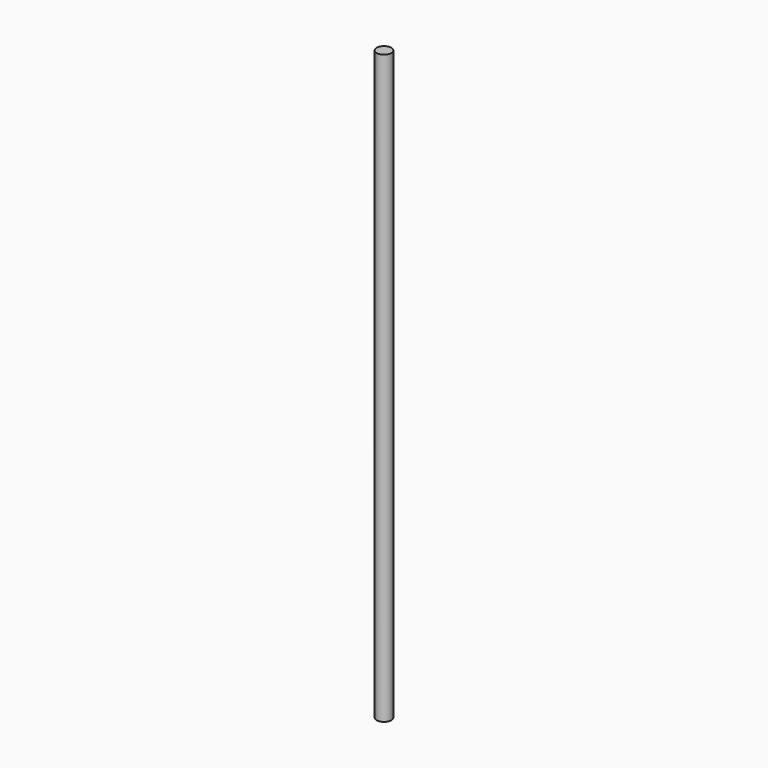
from build123d import *

# Parameters (mm, degrees)
SKETCH_R  = 5
PAD_DEPTH = 403


with BuildPart() as part:
    # Sketch → Pad (new body)
    with BuildSketch(Plane.XY):
        Circle(SKETCH_R)
    extrude(amount=PAD_DEPTH)


solid = part.part
